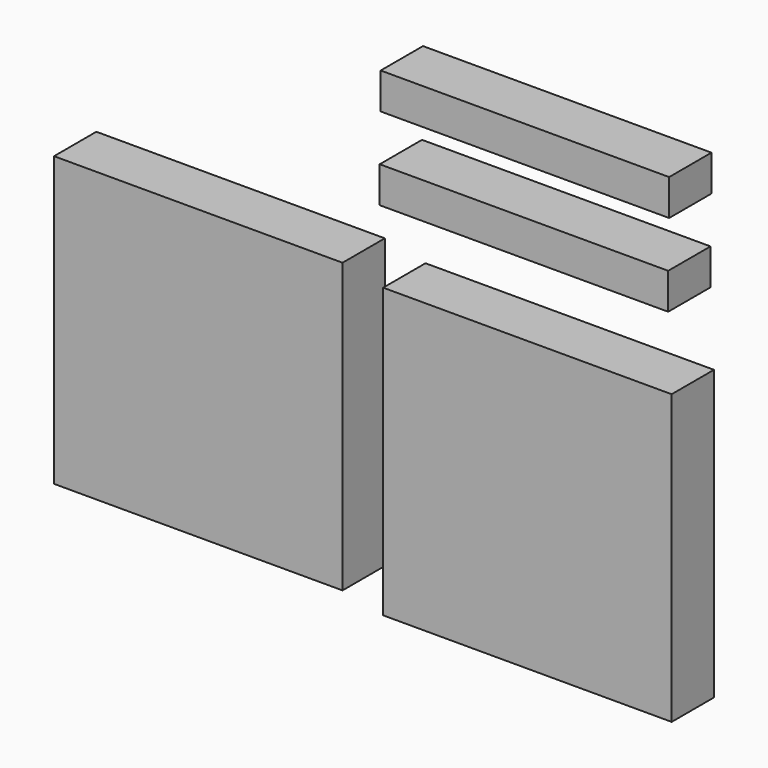
from build123d import *

# Parameters (mm, degrees)
F0_W     = 1219.2
F0_H     = 1219.2
F3_W     = 1219.2
F3_H     = 1219.2
F2_W     = 1219.2
F2_H     = 152.4
F1_W     = 1219.2
F1_H     = 152.4
F4_DEPTH = 223.52


with BuildPart() as f4:
    # F0 (on Front) + F3 (on Front) + F2 (on Front) + F1 (on Front) → F4 (new body)
    with BuildSketch(Plane.XZ):
        with Locations((-21.622136, 116.752973)):
            Rectangle(F0_W, F0_H)
    with BuildSketch(Plane.XZ):
        with Locations((1369.459987, 79.925937)):
            Rectangle(F3_W, F3_H)
    with BuildSketch(Plane.XZ):
        with Locations((1354.771346, 1067.744424)):
            Rectangle(F2_W, F2_H)
    with BuildSketch(Plane.XZ):
        with Locations((1358.829021, 1417.82448)):
            Rectangle(F1_W, F1_H)
    extrude(amount=F4_DEPTH)


solid = f4.part
